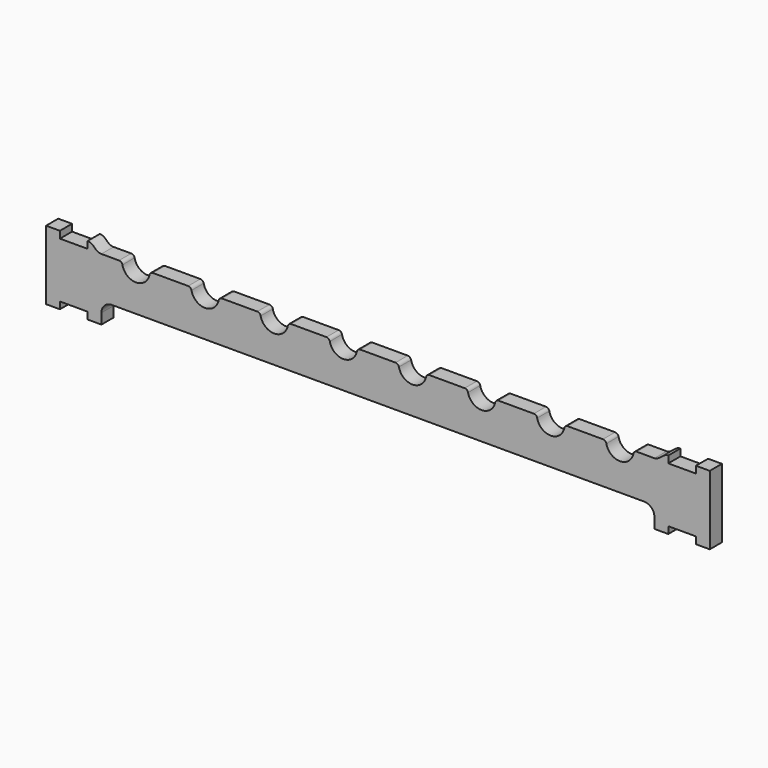
from build123d import *

# Parameters (mm, degrees)
F1_DEPTH = 22


with BuildPart() as f1:
    # F0 (on Front) → F1 (new body)
    with BuildSketch(Plane.XZ):
        with BuildLine():
            Line((476.499907, -50), (476.499907, 50))
            Line((476.499907, 50), (456.499907, 50))
            Line((456.499907, 50), (456.499907, 40))
            Line((456.499907, 40), (416.499907, 40))
            Line((416.499907, 40), (416.499907, 50))
            add(Edge.make_bspline(
                [(396.499907, 40), (403.826028, 40), (408.655763, 50), (416.499907, 50)],
                knots=[0, 0, 0, 0, 22.36068, 22.36068, 22.36068, 22.36068], degree=3))
            Line((396.499907, 40), (370.994804, 40))
            ThreePointArc((370.994804, 40), (367.832527, 38.872983), (366.095825, 36))
            ThreePointArc((366.095825, 36), (346.499907, 20), (326.903989, 36))
            ThreePointArc((326.903989, 36), (325.167287, 38.872983), (322.005009, 40))
            Line((322.005009, 40), (270.994804, 40))
            ThreePointArc((270.994804, 40), (267.832527, 38.872983), (266.095825, 36))
            ThreePointArc((266.095825, 36), (246.499907, 20), (226.903989, 36))
            ThreePointArc((226.903989, 36), (225.167287, 38.872983), (222.005009, 40))
            Line((222.005009, 40), (170.994804, 40))
            ThreePointArc((170.994804, 40), (167.832527, 38.872983), (166.095825, 36))
            ThreePointArc((166.095825, 36), (146.499907, 20), (126.903989, 36))
            ThreePointArc((126.903989, 36), (125.167287, 38.872983), (122.005009, 40))
            Line((122.005009, 40), (70.994804, 40))
            ThreePointArc((70.994804, 40), (67.832527, 38.872983), (66.095825, 36))
            ThreePointArc((66.095825, 36), (46.499907, 20), (26.903989, 36))
            ThreePointArc((26.903989, 36), (25.167287, 38.872983), (22.005009, 40))
            Line((22.005009, 40), (-29.005196, 40))
            ThreePointArc((-29.005196, 40), (-32.167473, 38.872983), (-33.904175, 36))
            ThreePointArc((-33.904175, 36), (-53.500093, 20), (-73.096011, 36))
            ThreePointArc((-73.096011, 36), (-74.832713, 38.872983), (-77.994991, 40))
            Line((-77.994991, 40), (-129.005196, 40))
            ThreePointArc((-129.005196, 40), (-132.167473, 38.872983), (-133.904175, 36))
            ThreePointArc((-133.904175, 36), (-153.500093, 20), (-173.096011, 36))
            ThreePointArc((-173.096011, 36), (-174.832713, 38.872983), (-177.994991, 40))
            Line((-177.994991, 40), (-229.005196, 40))
            ThreePointArc((-229.005196, 40), (-232.167473, 38.872983), (-233.904175, 36))
            ThreePointArc((-233.904175, 36), (-253.500093, 20), (-273.096011, 36))
            ThreePointArc((-273.096011, 36), (-274.832713, 38.872983), (-277.994991, 40))
            Line((-277.994991, 40), (-329.005196, 40))
            ThreePointArc((-329.005196, 40), (-332.167473, 38.872983), (-333.904175, 36))
            ThreePointArc((-333.904175, 36), (-353.500093, 20), (-373.096011, 36))
            ThreePointArc((-373.096011, 36), (-374.832713, 38.872983), (-377.994991, 40))
            Line((-377.994991, 40), (-403.500093, 40))
            add(Edge.make_bspline(
                [(-422.712623, 50), (-413.858684, 49.722134), (-413.219604, 40), (-403.500093, 40)],
                knots=[0.627192, 0.627192, 0.627192, 0.627192, 22.36068, 22.36068, 22.36068, 22.36068], degree=3))
            Line((-422.712623, 50), (-423.500093, 50))
            Line((-423.500093, 50), (-423.500093, 40))
            Line((-423.500093, 40), (-463.500093, 40))
            Line((-463.500093, 40), (-463.500093, 50))
            Line((-463.500093, 50), (-483.500093, 50))
            Line((-483.500093, 50), (-483.500093, -50))
            Line((-483.500093, -50), (-463.500093, -50))
            Line((-463.500093, -50), (-463.500093, -40))
            Line((-463.500093, -40), (-423.500093, -40))
            Line((-423.500093, -40), (-423.500093, -50))
            Line((-423.500093, -50), (-403.500093, -50))
            Line((-403.500093, -50), (-403.500093, -35))
            ThreePointArc((-403.500093, -35), (-399.106695, -24.393398), (-388.500093, -20))
            Line((-388.500093, -20), (381.499907, -20))
            ThreePointArc((381.499907, -20), (392.106508, -24.393398), (396.499907, -35))
            Line((396.499907, -35), (396.499907, -50))
            Line((396.499907, -50), (416.499907, -50))
            Line((416.499907, -50), (416.499907, -40))
            Line((416.499907, -40), (456.499907, -40))
            Line((456.499907, -40), (456.499907, -50))
            Line((456.499907, -50), (476.499907, -50))
        make_face()
        with BuildLine():
            add(Edge.make_bspline(
                [(-423.500093, 50), (-423.230485, 50.008172), (-422.968133, 50.008019), (-422.712623, 50)],
                knots=[0, 0, 0, 0, 0.627192, 0.627192, 0.627192, 0.627192], degree=3))
            Line((-423.500093, 50), (-422.712623, 50))
        make_face()
    extrude(amount=F1_DEPTH)


solid = f1.part
